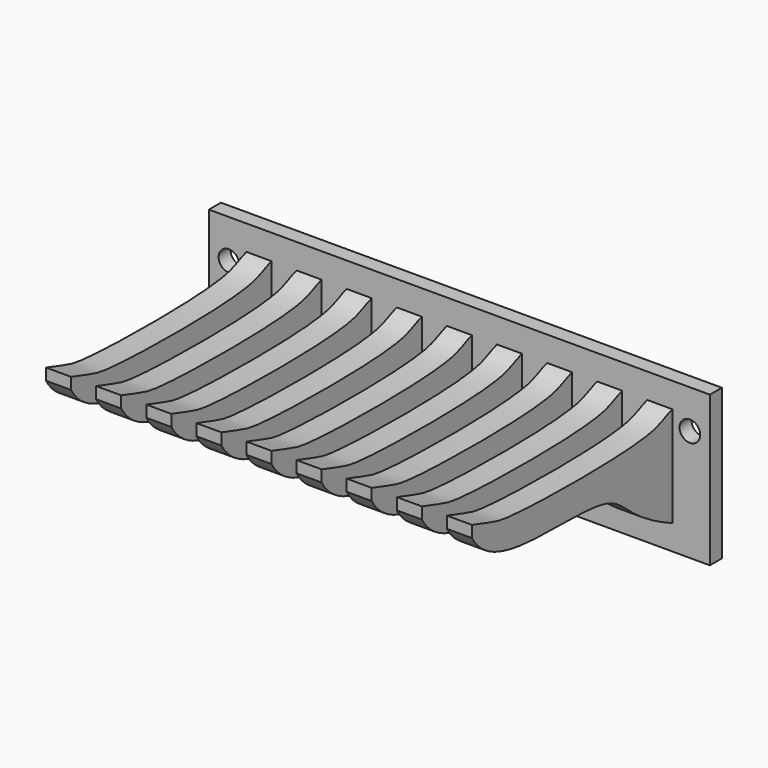
from build123d import *

# Parameters (mm, degrees)
F0_W     = 127
F0_H     = 38.1
F1_DEPTH = 3.81
F2_W     = 6.35
F2_H     = 25.4
F3_DEPTH = 63.5
F5_DEPTH = 63.5
F6_R     = 2.6174296782
F7_DEPTH = 3.811


with BuildPart() as f1:
    # F0 (on Front) → F1 (new body)
    with BuildSketch(Plane.XZ):
        Rectangle(F0_W, F0_H)
    extrude(amount=F1_DEPTH)

    # F2 (on face) → F3 (join)
    with BuildSketch(Plane.XZ.offset(3.81)):
        Rectangle(F2_W, F2_H)
        with Locations((-12.7, 0)):
            Rectangle(F2_W, F2_H)
        with Locations((-25.4, 0)):
            Rectangle(F2_W, F2_H)
        with Locations((-38.1, 0)):
            Rectangle(F2_W, F2_H)
        with Locations((-50.8, 0)):
            Rectangle(F2_W, F2_H)
        with Locations((12.7, 0)):
            Rectangle(F2_W, F2_H)
        with Locations((25.4, 0)):
            Rectangle(F2_W, F2_H)
        with Locations((38.1, 0)):
            Rectangle(F2_W, F2_H)
        with Locations((50.8, 0)):
            Rectangle(F2_W, F2_H)
    extrude(amount=F3_DEPTH)

    # F4 (on face) → F5 (cut, symmetric)
    with BuildSketch(Plane(origin=(-3.175, 0, 0), x_dir=(0, -1, 0), z_dir=(-1, 0, 0))):
        with BuildLine():
            Line((67.31, 12.7), (3.81, 12.7))
            add(Edge.make_bspline(
                [(3.81, 12.7), (6.3050069209, 11.9676747951), (9.1967184893, 8.3606481388), (59.7497626442, 9.0356287672), (60.7433703166, 10.7896008117), (67.31, 12.7)],
                knots=[0, 0, 0, 0, 0.21163029, 0.7293889356, 1, 1, 1, 1], degree=3))
        make_face()
        with BuildLine():
            add(Edge.make_bspline(
                [(3.81, -12.7), (17.743278357, -6.5302600047), (19.1088258602, 3.1821900149), (52.9273101917, -0.2173752818), (64.6900722513, 5.1149829761), (67.31, 9.7626671195)],
                knots=[0, 0, 0, 0, 0.3429023976, 0.7137803314, 1, 1, 1, 1], degree=3))
            Line((3.81, -12.7), (67.31, -12.7))
            Line((67.31, -12.7), (67.31, 9.7626671195))
        make_face()
    extrude(amount=F5_DEPTH, both=True, mode=Mode.SUBTRACT)

    # F6 (on face) → F7 (cut, through all)
    with BuildSketch(Plane.XZ.offset(3.81)):
        with Locations((-58.42, 9.2483349144)):
            Circle(F6_R)
        with Locations((58.42, 9.2483349144)):
            Circle(F6_R)
    extrude(amount=-F7_DEPTH, mode=Mode.SUBTRACT)


solid = f1.part
